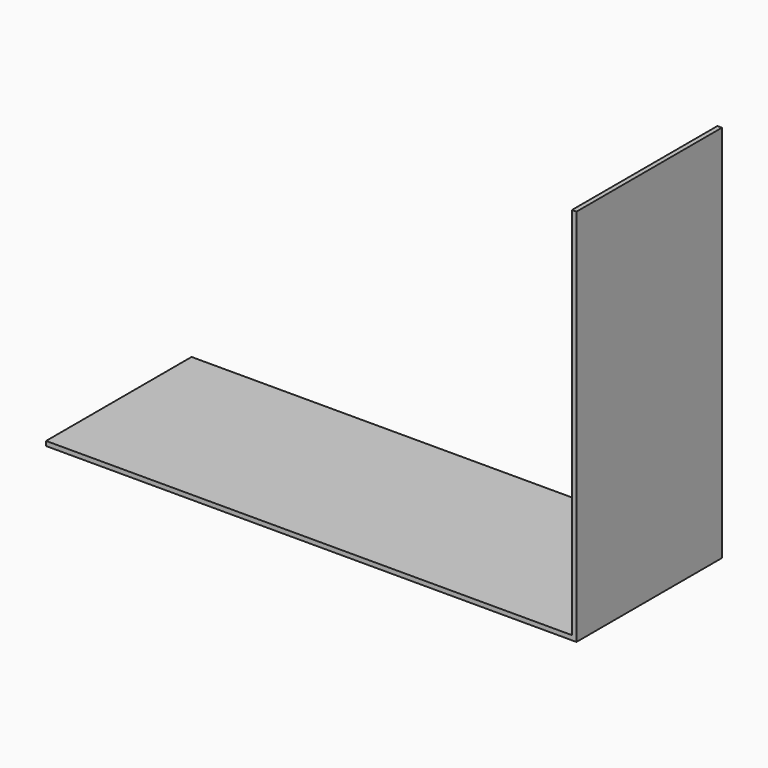
from build123d import *

# Parameters (mm, degrees)
F0_W     = 347
F0_H     = 3
F0_W_2   = 3
F0_H_2   = 247
F1_DEPTH = 60


with BuildPart() as f1:
    # F0 (on Front) → F1 (new body, symmetric)
    with BuildSketch(Plane.XZ):
        with Locations((-176.5, 1.5)):
            Rectangle(F0_W, F0_H)
        with Locations((-1.5, 1.5)):
            Rectangle(F0_W_2, F0_H)
        with Locations((-1.5, 126.5)):
            Rectangle(F0_W_2, F0_H_2)
    extrude(amount=F1_DEPTH, both=True)


solid = f1.part
